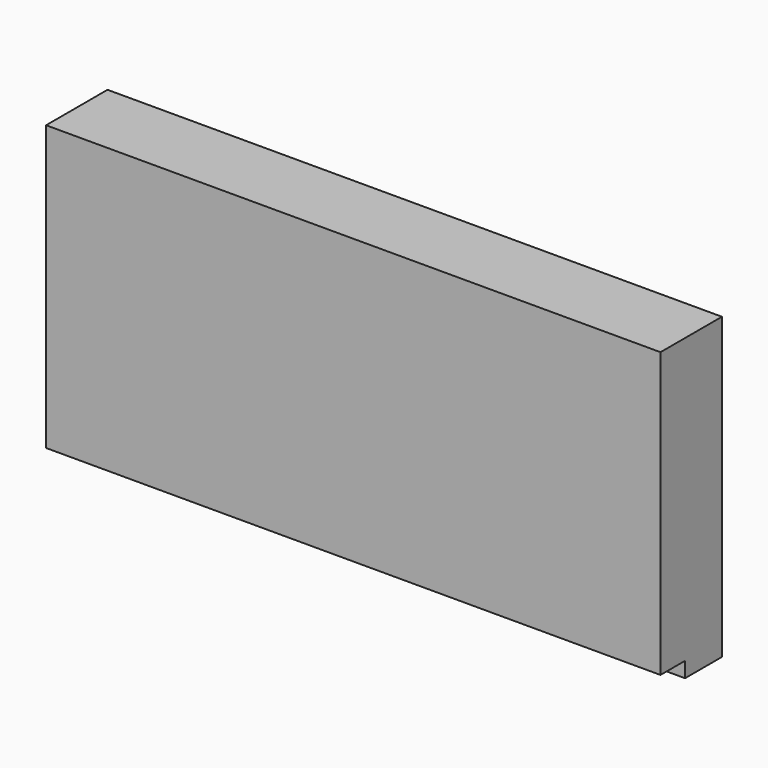
from build123d import *

# Parameters (mm, degrees)
F0_W     = 160
F0_H     = 78
F1_DEPTH = 12
F2_W     = 160
F2_H     = 74
F3_DEPTH = 8


with BuildPart() as f1:
    # F0 (on Front) → F1 (new body)
    with BuildSketch(Plane.XZ):
        with Locations((-6.334322, -3.217486)):
            Rectangle(F0_W, F0_H)
    extrude(amount=F1_DEPTH)

    # F2 (on face) + F0 (on Front) → F3 (join)
    with BuildSketch(Plane.XZ.offset(12)):
        with Locations((-6.334322, -1.217486)):
            Rectangle(F2_W, F2_H)
    with BuildSketch(Plane.XZ):
        with Locations((-6.334322, -3.217486)):
            Rectangle(F0_W, F0_H)
    extrude(amount=F3_DEPTH)


solid = f1.part
